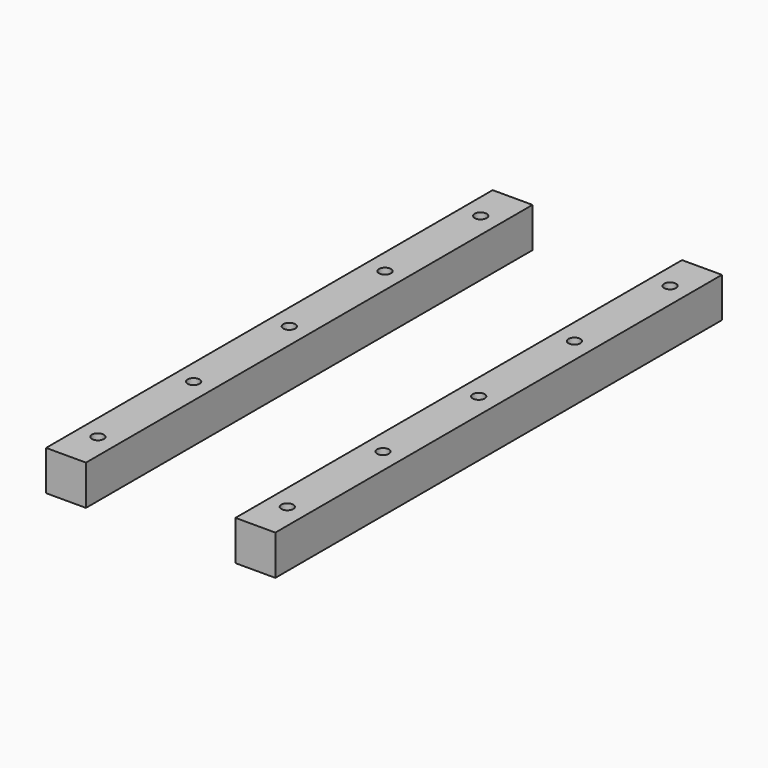
from build123d import *

# Parameters (mm, degrees)
F0_W     = 20
F0_H     = 280
F0_R     = 3
F1_DEPTH = 20


with BuildPart() as f1:
    # F0 (on Top) → F1 (new body)
    with BuildSketch(Plane.XY):
        with Locations((10, 140)):
            Rectangle(F0_W, F0_H)
        with Locations((10, 20)):
            Circle(F0_R, mode=Mode.SUBTRACT)
        with Locations((10, 80)):
            Circle(F0_R, mode=Mode.SUBTRACT)
        with Locations((10, 140)):
            Circle(F0_R, mode=Mode.SUBTRACT)
        with Locations((10, 200)):
            Circle(F0_R, mode=Mode.SUBTRACT)
        with Locations((10, 260)):
            Circle(F0_R, mode=Mode.SUBTRACT)
        with Locations((105, 140)):
            Rectangle(F0_W, F0_H)
        with Locations((105, 20)):
            Circle(F0_R, mode=Mode.SUBTRACT)
        with Locations((105, 80)):
            Circle(F0_R, mode=Mode.SUBTRACT)
        with Locations((105, 140)):
            Circle(F0_R, mode=Mode.SUBTRACT)
        with Locations((105, 200)):
            Circle(F0_R, mode=Mode.SUBTRACT)
        with Locations((105, 260)):
            Circle(F0_R, mode=Mode.SUBTRACT)
    extrude(amount=F1_DEPTH)


solid = f1.part
